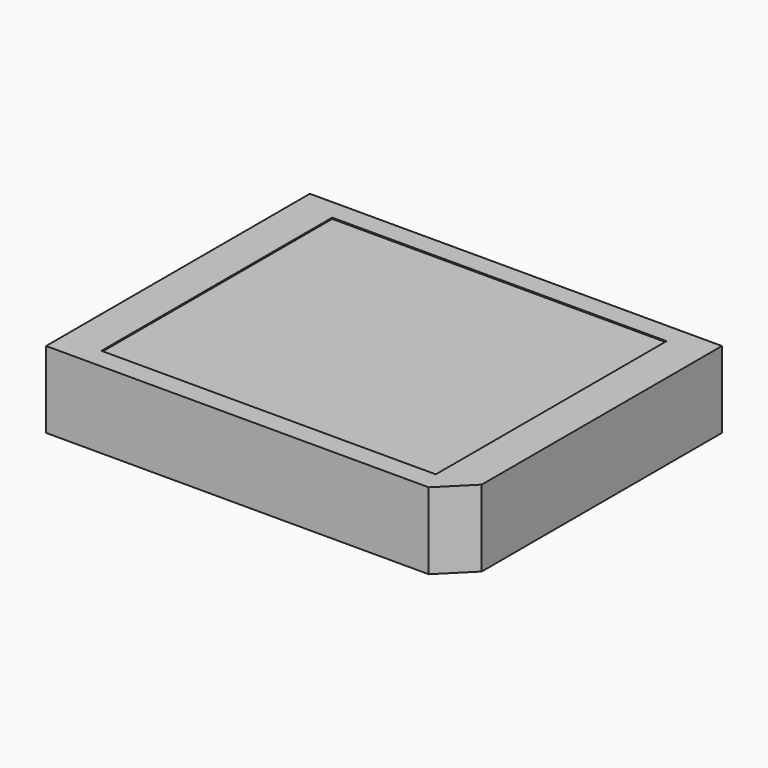
from build123d import *

# Parameters (mm, degrees)
F0_W     = 3.5
F0_H     = 2.8
F1_DEPTH = 0.65
F2_W     = 2.84
F2_H     = 2.45
F3_DEPTH = 0.01
F4_SIZE  = 0.25


with BuildPart() as f1:
    # F0 (on Top) → F1 (new body)
    with BuildSketch(Plane.XY):
        with Locations((1.75, 1.4)):
            Rectangle(F0_W, F0_H)
    extrude(amount=-F1_DEPTH)

    # F2 (on face) → F3 (cut)
    with BuildSketch(Plane.XY):
        with Locations((1.75, 1.4)):
            Rectangle(F2_W, F2_H)
    extrude(amount=-F3_DEPTH, mode=Mode.SUBTRACT)

    # F4
    f4_edges = [f1.edges().sort_by_distance(p)[0] for p in [
        (3.5, 0, -0.325),
    ]]
    chamfer(f4_edges, length=F4_SIZE)


solid = f1.part
